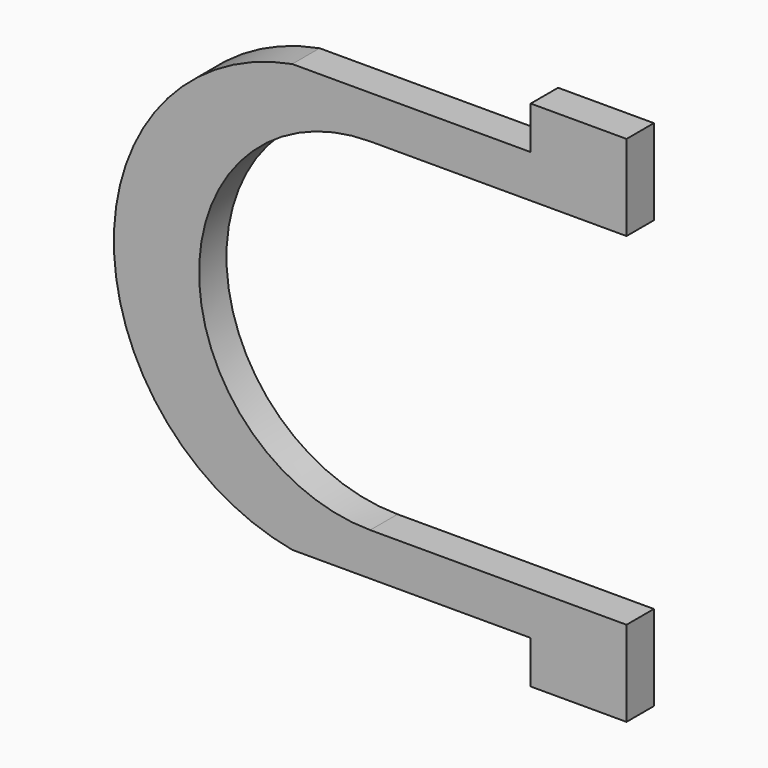
from build123d import *

# Parameters (mm, degrees)
F1_DEPTH = 25.4


with BuildPart() as f1:
    # F0 (on Front) → F1 (new body)
    with BuildSketch(Plane.XZ):
        with BuildLine():
            Line((-57.852422, -158.75), (119.170049, -158.75))
            Line((119.170049, -158.75), (119.170049, -190.5))
            Line((119.170049, -190.5), (190.290049, -190.5))
            Line((190.290049, -190.5), (190.290049, -158.75))
            Line((190.290049, -158.75), (190.290049, -127))
            Line((190.290049, -127), (0, -127))
            ThreePointArc((0, -127), (-127, 0), (0, 127))
            Line((0, 127), (153.091423, 127))
            Line((153.091423, 127), (190.290049, 127))
            Line((190.290049, 127), (190.290049, 158.75))
            Line((190.290049, 158.75), (190.290049, 190.5))
            Line((190.290049, 190.5), (119.170049, 190.5))
            Line((119.170049, 190.5), (119.170049, 158.75))
            Line((119.170049, 158.75), (-57.852422, 158.75))
            ThreePointArc((-57.852422, 158.75), (-190.290049, 0), (-57.852422, -158.75))
        make_face()
    extrude(amount=F1_DEPTH)


solid = f1.part
